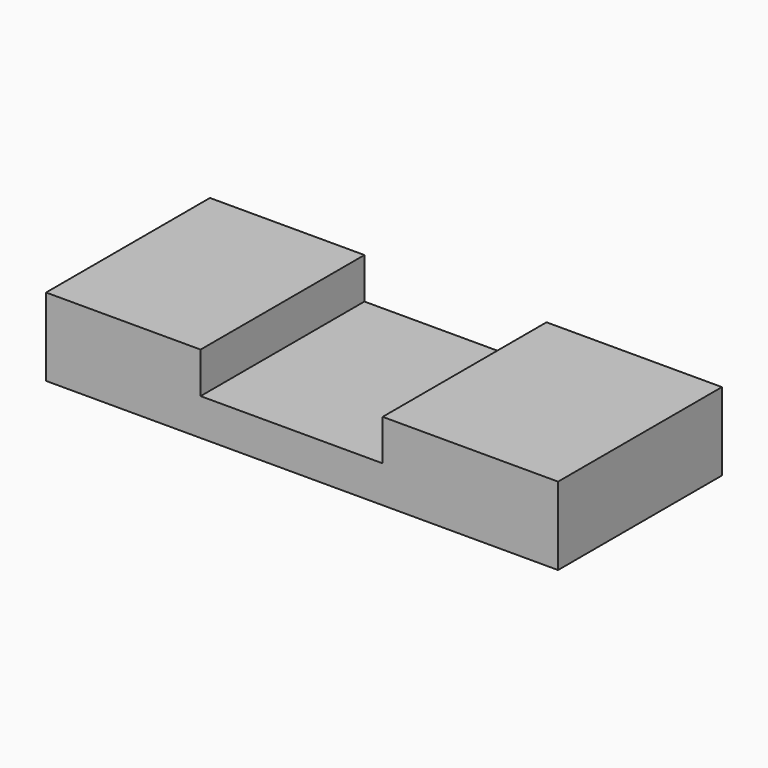
from build123d import *

# Parameters (mm, degrees)
F0_W     = 250
F0_H     = 18.0115271627
F1_DEPTH = 50
F2_W     = 75.4434949934
F2_H     = 100
F2_W_2   = 85.6565050066
F3_DEPTH = 20


with BuildPart() as f1:
    # F0 (on Front) → F1 (new body, symmetric)
    with BuildSketch(Plane.XZ):
        with Locations((5.1065050066, -34.4105418772)):
            Rectangle(F0_W, F0_H)
    extrude(amount=F1_DEPTH, both=True)

    # F2 (on face) → F3 (join)
    with BuildSketch(Plane.XY.offset(-25.4047782958)):
        with Locations((-82.1717474967, 0)):
            Rectangle(F2_W, F2_H)
        with Locations((87.2782525033, 0)):
            Rectangle(F2_W_2, F2_H)
    extrude(amount=F3_DEPTH)


solid = f1.part
